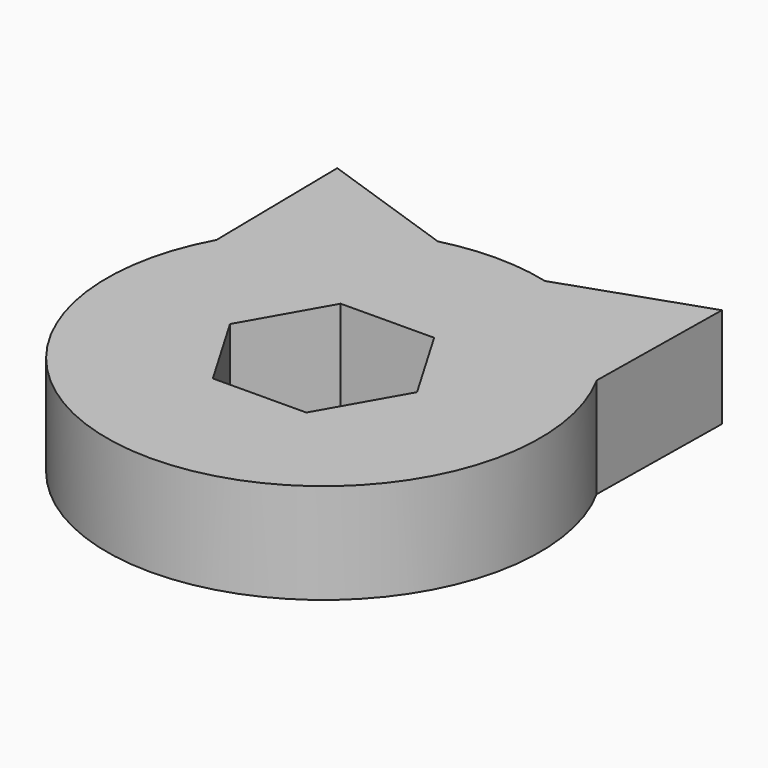
from build123d import *

# Parameters (mm, degrees)
F1_DEPTH = 6.35


with BuildPart() as f1:
    # F0 (on Top) → F1 (new body)
    with BuildSketch(Plane.XY):
        with BuildLine():
            Line((-12.188626, 21.072123), (-12.047861, 11.32767))
            ThreePointArc((-12.047861, 11.32767), (0, -8.98224), (12.047861, 11.32767))
            Line((12.047861, 11.32767), (12.188626, 21.072123))
            Line((12.188626, 21.072123), (3.397549, 18.047413))
            ThreePointArc((3.397549, 18.047413), (0, 18.474475), (-3.397549, 18.047413))
            Line((-3.397549, 18.047413), (-12.188626, 21.072123))
        make_face()
        Polygon((-2.982468, 9.831229), (2.912602, 9.871567), (5.89507, 4.786455), (2.982468, -0.338994), (-2.912602, -0.379331), (-5.89507, 4.70578), align=None, mode=Mode.SUBTRACT)
    extrude(amount=F1_DEPTH)


solid = f1.part
